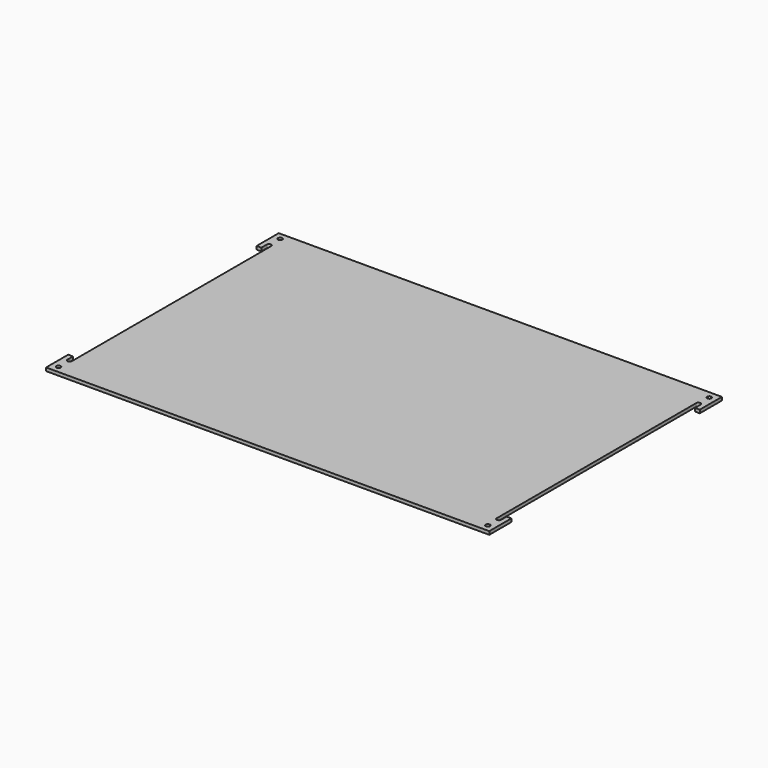
from build123d import *

# Parameters (mm, degrees)
SKETCH_R      = 3.9751
EXTRUDE_DEPTH = 5.9944


with BuildPart() as part:
    # Sketch → Extrude (new body)
    with BuildSketch(Plane.XY):
        with BuildLine():
            Line((0, 0), (0, -50.8))
            Line((0, -50.8), (8.7249, -50.8))
            Line((8.7249, -50.8), (8.7249, -38.1))
            ThreePointArc((16.6751, -38.1), (12.7, -34.1249), (8.7249, -38.1))
            Line((16.6751, -38.1), (16.6751, -495.3))
            ThreePointArc((8.7249, -495.3), (12.7, -499.2751), (16.6751, -495.3))
            Line((8.7249, -495.3), (8.7249, -482.6))
            Line((8.7249, -482.6), (0, -482.6))
            Line((0, -482.6), (0, -533.4))
            Line((0, -533.4), (812.8, -533.4))
            Line((812.8, -533.4), (812.8, -482.6))
            Line((812.8, -482.6), (804.0751, -482.6))
            Line((804.0751, -482.6), (804.0751, -495.3))
            ThreePointArc((796.1249, -495.3), (800.1, -499.2751), (804.0751, -495.3))
            Line((796.1249, -38.1), (796.1249, -495.3))
            ThreePointArc((804.0751, -38.1), (800.1, -34.1249), (796.1249, -38.1))
            Line((804.0751, -50.8), (804.0751, -38.1))
            Line((812.8, -50.8), (804.0751, -50.8))
            Line((812.8, 0), (812.8, -50.8))
            Line((0, 0), (812.8, 0))
        make_face()
        with Locations((12.7, -12.7)):
            Circle(SKETCH_R, mode=Mode.SUBTRACT)
        with Locations((800.1, -12.7)):
            Circle(SKETCH_R, mode=Mode.SUBTRACT)
        with Locations((12.7, -520.7)):
            Circle(SKETCH_R, mode=Mode.SUBTRACT)
        with Locations((800.1, -520.7)):
            Circle(SKETCH_R, mode=Mode.SUBTRACT)
    extrude(amount=EXTRUDE_DEPTH)


solid = part.part
